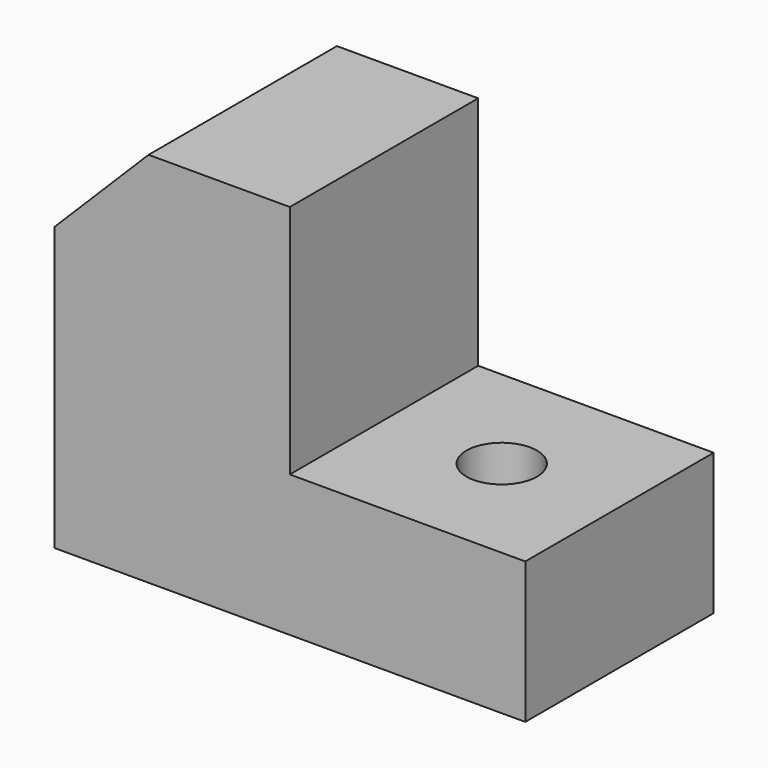
from build123d import *

# Parameters (mm, degrees)
F1_DEPTH = 50
F2_R     = 7.5
F3_DEPTH = 30.001
F4_SIZE  = 20


with BuildPart() as f1:
    # F0 (on Front) → F1 (new body)
    with BuildSketch(Plane.XZ):
        Polygon((0, 80), (0, 0), (100, 0), (100, 30), (50, 30), (50, 80), align=None)
    extrude(amount=F1_DEPTH)

    # F2 (on face) → F3 (cut, through all)
    with BuildSketch(Plane.XY.offset(30)):
        with Locations((75, -25)):
            Circle(F2_R)
    extrude(amount=-F3_DEPTH, mode=Mode.SUBTRACT)

    # F4
    f4_edges = [f1.edges().sort_by_distance(p)[0] for p in [
        (0, -25, 80),
    ]]
    chamfer(f4_edges, length=F4_SIZE)


solid = f1.part
